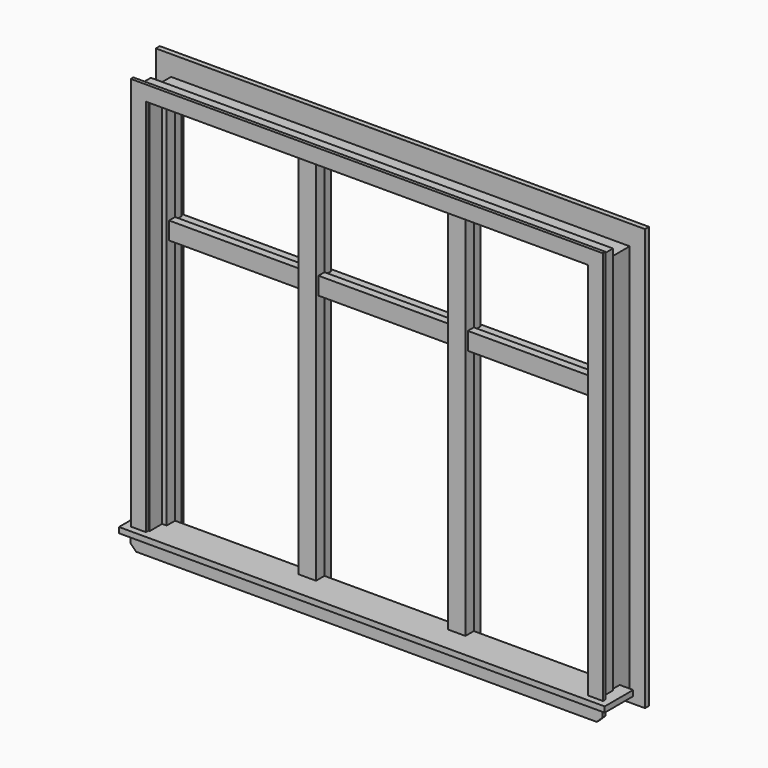
from build123d import *

# Parameters (mm, degrees)
F1_DEPTH  = 1485
F2_W      = 913.5
F2_H      = 42
F3_DEPTH  = 33
F4_W      = 967.5
F4_H      = 142
F5_DEPTH  = 22
F7_DEPTH  = 913.5
F9_DEPTH  = 62
F11_DEPTH = 13
F14_DEPTH = 15
F16_DEPTH = 50
F17_W     = 42
F17_H     = 50
F18_DEPTH = 40
F21_DEPTH = 20


with BuildPart() as f1:
    # F0 (on Top) → F1 (new body)
    with BuildSketch(Plane.XY):
        Polygon((276.5, 50), (276.5, 0), (262.5, 0), (262.5, -42), (332.5, -42), (332.5, 0), (318.5, 0), (318.5, 50), align=None)
    extrude(amount=F1_DEPTH)



with BuildPart() as f1b:
    # F0 (on Top) → F1, piece 2 (new body)
    with BuildSketch(Plane.XY):
        Polygon((871.5, 0), (857.5, 0), (857.5, -42), (913.5, -42), (913.5, 50), (871.5, 50), align=None)
    extrude(amount=F1_DEPTH)


with BuildPart() as f1_1:
    add(f1.part)

    add(f1b.part)  # F3 merges F1b
    # F2 (on face) → F3 (join)
    with BuildSketch(Plane.XY.offset(1485)):
        with Locations((456.75, -21)):
            Rectangle(F2_W, F2_H)
    extrude(amount=F3_DEPTH)

    # F4 (on face) → F5 (join)
    with BuildSketch(Plane(origin=(0, 0, 0), x_dir=(1, 0, 0), z_dir=(0, 0, -1))):
        with Locations((483.75, 71)):
            Rectangle(F4_W, F4_H)
    extrude(amount=F5_DEPTH)

    # F6 (on face) → F7 (join, through all)
    with BuildSketch(Plane.YZ.offset(913.5)):
        Polygon((0, 1065), (-30, 1065), (-30, 995), (0, 995), (0, 1007), (62, 1007), (62, 1043), (0, 1043), align=None)
    extrude(amount=-F7_DEPTH)

    # F8 (on face) → F9 (join)
    with BuildSketch(Plane.XZ.offset(42)):
        Polygon((875.5, 1505), (875.5, 0), (920.5, 0), (920.5, 1550), (0, 1550), (0, 1505), align=None)
    extrude(amount=F9_DEPTH)

    # F10 (on face) → F11 (join)
    with BuildSketch(Plane.XZ.offset(104)):
        Polygon((880.5, 1510), (880.5, 0), (940.5, 0), (940.5, 1570), (0, 1570), (0, 1510), align=None)
    extrude(amount=F11_DEPTH)

    # F13 (on offset) → F14 (join)
    with BuildSketch(Plane.XZ.offset(119)):
        Polygon((940.5, -57), (940.5, -22), (0, -22), (0, -80), (917.5, -80), align=None)
    extrude(amount=-F14_DEPTH)

    # F15 (on face) → F16 (join, through all)
    with BuildSketch(Plane(origin=(0, 0, 0), x_dir=(-1, 0, 0), z_dir=(0, 1, 0))):
        Polygon((-913.5, 1518), (-913.5, 1485), (-871.5, 1485), (-871.5, 1495), (-318.5, 1495), (-318.5, 1485), (-276.5, 1485), (-276.5, 1495), (0, 1495), (0, 1518), align=None)
    extrude(amount=F16_DEPTH)

    # F17 (on face) → F18 (join)
    with BuildSketch(Plane(origin=(0, 0, 0), x_dir=(1, 0, 0), z_dir=(0, 0, -1))):
        with Locations((297.5, -25)):
            Rectangle(F17_W, F17_H)
        with Locations((892.5, -25)):
            Rectangle(F17_W, F17_H)
    extrude(amount=F18_DEPTH)

    # F19: F1 across plane


with BuildPart() as f1_2:
    add(f1_1.part)
    add(f1_1.part.mirror(Plane.YZ))


with BuildPart() as f21:
    # F20 (on face) → F21 (new body)
    with BuildSketch(Plane(origin=(0, 50, 0), x_dir=(-1, 0, 0), z_dir=(0, 1, 0))):
        Polygon((-879.5, -82), (-879.5, 1503), (879.5, 1503), (879.5, -82), (974.5, -82), (974.5, 1598), (-974.5, 1598), (-974.5, -82), align=None)
    extrude(amount=F21_DEPTH)


solid = Compound([f1_2.part, f21.part])
